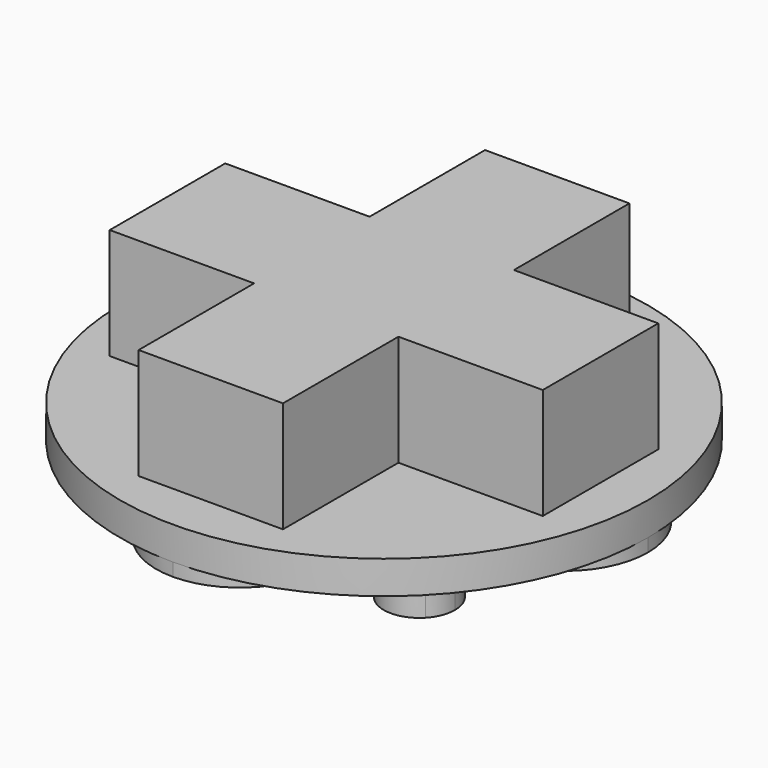
from build123d import *

# Parameters (mm, degrees)
F0_R      = 12.8
F1_DEPTH  = 1.6
F2_W      = 7
F2_H      = 7
F3_DEPTH  = 5.38
F4_W      = 4.11
F4_H      = 7
F4_W_2    = 7
F4_H_2    = 4.11
F5_DEPTH  = 5
F6_R      = 2.5
F7_DEPTH  = 8.3
F9_DEPTH  = 0.63
F11_DEPTH = 1.65
F12_R     = 2.5


with BuildPart() as f1:
    # F0 (on Top) → F1 (new body)
    with BuildSketch(Plane.XY):
        Circle(F0_R)
    extrude(amount=F1_DEPTH)

    # F2 (on face) → F3 (join)
    with BuildSketch(Plane.XY.offset(1.6)):
        with Locations((0, 7)):
            Rectangle(F2_W, F2_H)
        with Locations((7, 0)):
            Rectangle(F2_W, F2_H)
        Rectangle(F2_W, F2_H)
        with Locations((-7, 0)):
            Rectangle(F2_W, F2_H)
        with Locations((0, -7)):
            Rectangle(F2_W, F2_H)
    extrude(amount=F3_DEPTH)

    # F4 (on face) → F5 (cut)
    with BuildSketch(Plane(origin=(0, 0, 0), x_dir=(1, 0, 0), z_dir=(0, 0, -1))):
        with Locations((0, -5.555)):
            Rectangle(F4_W, F4_H)
        with Locations((-5.555, 0)):
            Rectangle(F4_W_2, F4_H_2)
        Rectangle(F4_W, F4_H_2)
        with Locations((5.555, 0)):
            Rectangle(F4_W_2, F4_H_2)
        with Locations((0, 5.555)):
            Rectangle(F4_W, F4_H)
    extrude(amount=-F5_DEPTH, mode=Mode.SUBTRACT)

    # F6 (on face) → F7 (join)
    with BuildSketch(Plane(origin=(0, 0, 5), x_dir=(1, 0, 0), z_dir=(0, 0, -1))):
        Circle(F6_R)
    extrude(amount=F7_DEPTH)

    # F8 (on face) → F9 (join)
    with BuildSketch(Plane(origin=(0, 0, 0), x_dir=(1, 0, 0), z_dir=(0, 0, -1))):
        with BuildLine():
            ThreePointArc((-5.2600895427, 2.055), (-9.8149794946, 3.9074696001), (-12.8, 0))
            ThreePointArc((-12.8, 0), (-9.8149794946, -3.9074696001), (-5.2600895427, -2.055))
            Line((-5.2600895427, -2.055), (-9.055, -2.055))
            Line((-9.055, -2.055), (-9.055, 2.055))
            Line((-9.055, 2.055), (-5.2600895427, 2.055))
        make_face()
        with BuildLine():
            ThreePointArc((2.055, 5.2600895427), (3.516052474, 6.7400559709), (4.05, 8.75))
            ThreePointArc((4.05, 8.75), (2.8637824638, 11.6137824638), (0, 12.8))
            ThreePointArc((0, 12.8), (-3.9074696001, 9.8149794946), (-2.055, 5.2600895427))
            Line((-2.055, 5.2600895427), (-2.055, 9.055))
            Line((-2.055, 9.055), (2.055, 9.055))
            Line((2.055, 9.055), (2.055, 5.2600895427))
        make_face()
        with BuildLine():
            ThreePointArc((5.2600895427, -2.055), (9.8149794946, -3.9074696001), (12.8, 0))
            ThreePointArc((12.8, 0), (9.8149794946, 3.9074696001), (5.2600895427, 2.055))
            Line((5.2600895427, 2.055), (9.055, 2.055))
            Line((9.055, 2.055), (9.055, -2.055))
            Line((9.055, -2.055), (5.2600895427, -2.055))
        make_face()
        with BuildLine():
            ThreePointArc((-2.055, -5.2600895427), (-3.9074696001, -9.8149794946), (0, -12.8))
            ThreePointArc((0, -12.8), (2.8637824638, -11.6137824638), (4.05, -8.75))
            ThreePointArc((4.05, -8.75), (3.516052474, -6.7400559709), (2.055, -5.2600895427))
            Line((2.055, -5.2600895427), (2.055, -9.055))
            Line((2.055, -9.055), (-2.055, -9.055))
            Line((-2.055, -9.055), (-2.055, -5.2600895427))
        make_face()
    extrude(amount=F9_DEPTH)

    # F10 (on face) → F11 (join)
    with BuildSketch(Plane(origin=(0, 0, 0), x_dir=(1, 0, 0), z_dir=(0, 0, -1))):
        with BuildLine():
            ThreePointArc((-7.9112882596, 8.3463475889), (-7.4059830041, 5.5096760997), (-4.9995950218, 7.0943954494))
            ThreePointArc((-4.9995950218, 7.0943954494), (-6.0432070395, 8.6791147992), (-7.9112882596, 8.3463475889))
        make_face()
        with BuildLine():
            ThreePointArc((-5.3693954494, -6.7245950218), (-7.7331471854, -5.1222151605), (-8.3463475884, -7.91128826))
            ThreePointArc((-8.3463475884, -7.91128826), (-6.4556437135, -8.3269748831), (-5.3693954494, -6.7245950218))
        make_face()
        with BuildLine():
            ThreePointArc((8.4495950218, -7.0943954494), (5.1398756712, -6.4130074691), (7.9112882626, -8.346347586))
            ThreePointArc((7.9112882626, -8.346347586), (8.3093143724, -7.7757834298), (8.4495950218, -7.0943954494))
        make_face()
        with BuildLine():
            ThreePointArc((8.8193954494, 6.7245950218), (8.6967753098, 7.36334676), (8.3463475851, 7.9112882636))
            ThreePointArc((8.3463475851, 7.9112882636), (5.492015589, 6.0858432836), (8.8193954494, 6.7245950218))
        make_face()
    extrude(amount=F11_DEPTH)

    # F12
    f12_edges = [f1.edges().sort_by_distance(p)[0] for p in [
        (-2.5, 0, -3.3),
    ]]
    fillet(f12_edges, radius=F12_R)


solid = f1.part
